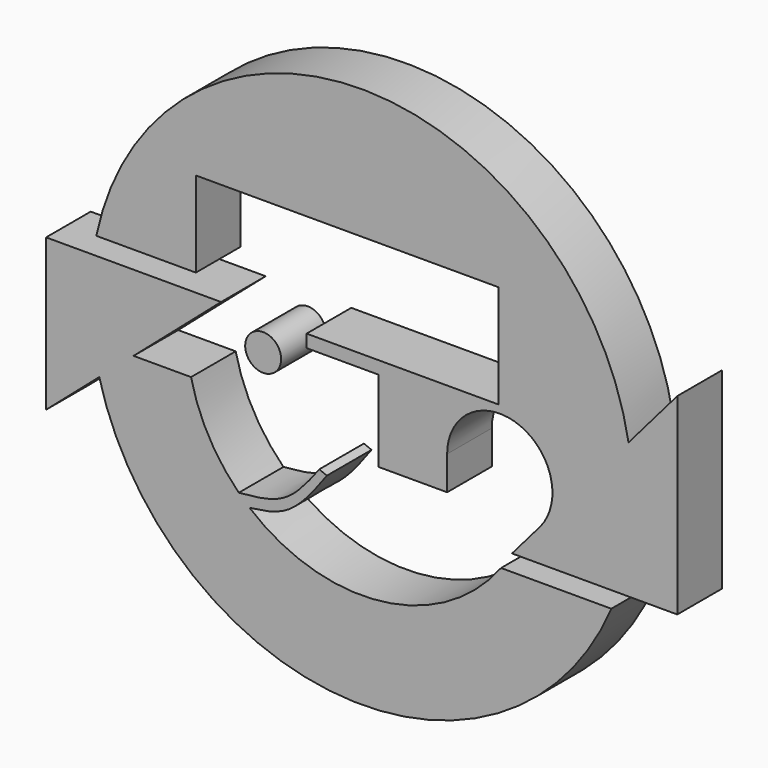
from build123d import *

# Parameters (mm, degrees)
F1_DEPTH = 12.7
F0_R     = 4.0886647845


with BuildPart() as f1:
    # F0 (on Front) → F1 (new body)
    with BuildSketch(Plane.XZ):
        with BuildLine():
            Line((71.8398294281, 23.5212235802), (60.751299087, 10.6180520119))
            ThreePointArc((60.751299087, 10.6180520119), (1.0213035563, 61.6637681976), (-60.3663526215, 12.6240580027))
            Line((-60.3663526215, 12.6240580027), (-37.7112602494, 12.6240580027))
            Line((-37.7112602494, 12.6240580027), (-37.7112602494, 32.0908278227))
            Line((-37.7112602494, 32.0908278227), (31.1002338197, 32.0908278227))
            Line((31.1002338197, 32.0908278227), (31.1002338197, 8.5995349878))
            Line((31.1002338197, 8.5995349878), (-12.5109853331, 8.5995349878))
            Line((-12.5109853331, 8.5995349878), (-12.5109853331, 5.6921191359))
            Line((-12.5109853331, 5.6921191359), (3.8951400559, 5.6921191359))
            Line((3.8951400559, 5.6921191359), (3.8951400559, -12.790729866))
            Line((3.8951400559, -12.790729866), (19.4705741372, -12.790729866))
            Line((19.4705741372, -12.790729866), (19.4705741372, -5.1068487732))
            ThreePointArc((19.4705741372, -5.1068487732), (35.4884527542, 6.1691779677), (40.7011304119, -12.7133326199))
            Line((40.7011304119, -12.7133326199), (34.2307118886, -20.2426370233))
            Line((34.2307118886, -20.2426370233), (71.8398294281, -20.2426370233))
            Line((71.8398294281, -20.2426370233), (71.8398294281, 23.5212235802))
        make_face()
    extrude(amount=F1_DEPTH)


with BuildPart() as f1b:
    # F0 (on Front) → F1, piece 2 (new body)
    with BuildSketch(Plane.XZ):
        with BuildLine():
            ThreePointArc((-27.9451449198, -28.2944317042), (-34.7914894942, -19.2628722893), (-38.8122544574, -8.6668849069))
            Line((-38.8122544574, -8.6668849069), (-51.8921427429, -8.6668849069))
            Line((-51.8921427429, -8.6668849069), (-31.9842025638, 8.5995349878))
            Line((-31.9842025638, 8.5995349878), (-71.800082922, 8.5995349878))
            Line((-71.800082922, 8.5995349878), (-71.800082922, -25.9333048016))
            Line((-71.800082922, -25.9333048016), (-59.7069674495, -15.4447857632))
            ThreePointArc((-59.7069674495, -15.4447857632), (-4.4994341074, -61.5078731708), (56.8237446806, -23.9692596832))
            Line((56.8237446806, -23.9692596832), (31.7329573204, -23.9692596832))
            ThreePointArc((31.7329573204, -23.9692596832), (4.5307735891, -39.509215137), (-25.4831119664, -30.530591127))
            add(Edge.make_bspline(
                [(-25.4831119664, -30.530591127), (-22.5052010071, -30.1433016085), (-15.8977890934, -29.2485495889), (-10.726291414, -22.2105711575), (-7.8940121457, -18.352009356)],
                knots=[0, 0, 0, 0, 0.4522755774, 1, 1, 1, 1], degree=3))
            Line((-7.8940121457, -18.352009356), (-9.633667767, -17.6485516131))
            add(Edge.make_bspline(
                [(-27.9451449198, -28.2944317042), (-24.3513194246, -27.9903303237), (-16.939122406, -27.3313255858), (-12.112270726, -20.9352883588), (-9.633667767, -17.6485516131)],
                knots=[0, 0, 0, 0, 0.4865453814, 1, 1, 1, 1], degree=3))
        make_face()
    extrude(amount=F1_DEPTH)


with BuildPart() as f1c:
    # F0 (on Front) → F1, piece 3 (new body)
    with BuildSketch(Plane.XZ):
        with Locations((-22.3980676383, 1.6034543514)):
            Circle(F0_R)
    extrude(amount=F1_DEPTH)


solid = Compound([f1.part, f1b.part, f1c.part])
